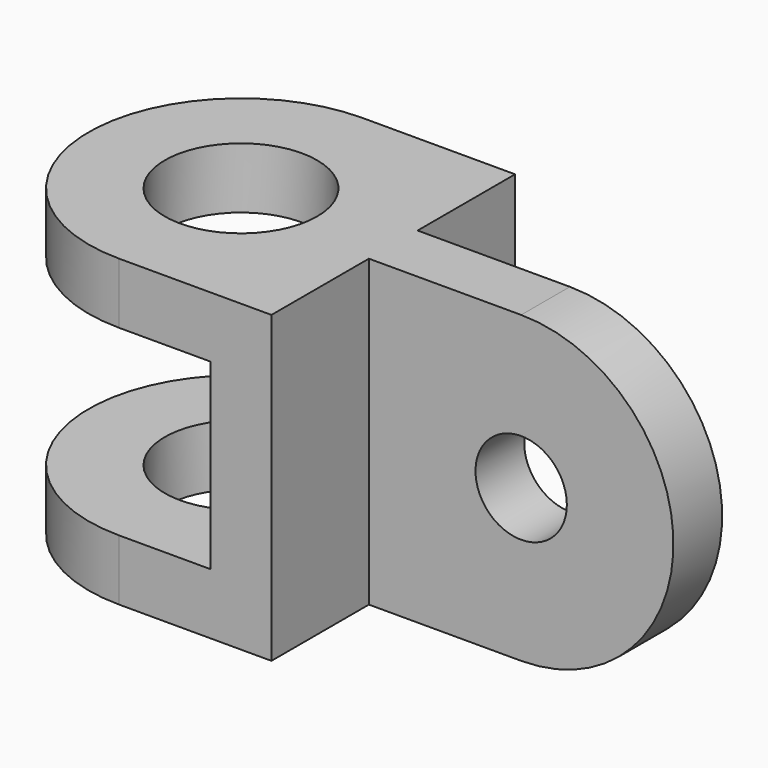
from build123d import *

# Parameters (mm, degrees)
F0_R     = 25
F1_DEPTH = 50
F2_R     = 15
F3_DEPTH = 10
F4_W     = 80
F4_H     = 60
F5_DEPTH = 100


with BuildPart() as f1:
    # F0 (on Top) → F1 (new body, symmetric)
    with BuildSketch(Plane.XY):
        with BuildLine():
            Line((0, 50), (-50, 50))
            ThreePointArc((-50, 50), (-100, 0), (-50, -50))
            Line((-50, -50), (0, -50))
            Line((0, -50), (0, 50))
        make_face()
        with Locations((-50, 0)):
            Circle(F0_R, mode=Mode.SUBTRACT)
    extrude(amount=F1_DEPTH, both=True)

    # F2 (on Front) → F3 (join, symmetric)
    with BuildSketch(Plane.XZ):
        with BuildLine():
            Line((0, -50), (50, -50))
            ThreePointArc((50, -50), (100, 0), (50, 50))
            Line((50, 50), (0, 50))
            Line((0, 50), (0, -50))
        make_face()
        with Locations((50, 0)):
            Circle(F2_R, mode=Mode.SUBTRACT)
    extrude(amount=F3_DEPTH, both=True)

    # F4 (on Front) → F5 (cut, symmetric)
    with BuildSketch(Plane.XZ):
        with Locations((-60, 0)):
            Rectangle(F4_W, F4_H)
    extrude(amount=F5_DEPTH, both=True, mode=Mode.SUBTRACT)


solid = f1.part
